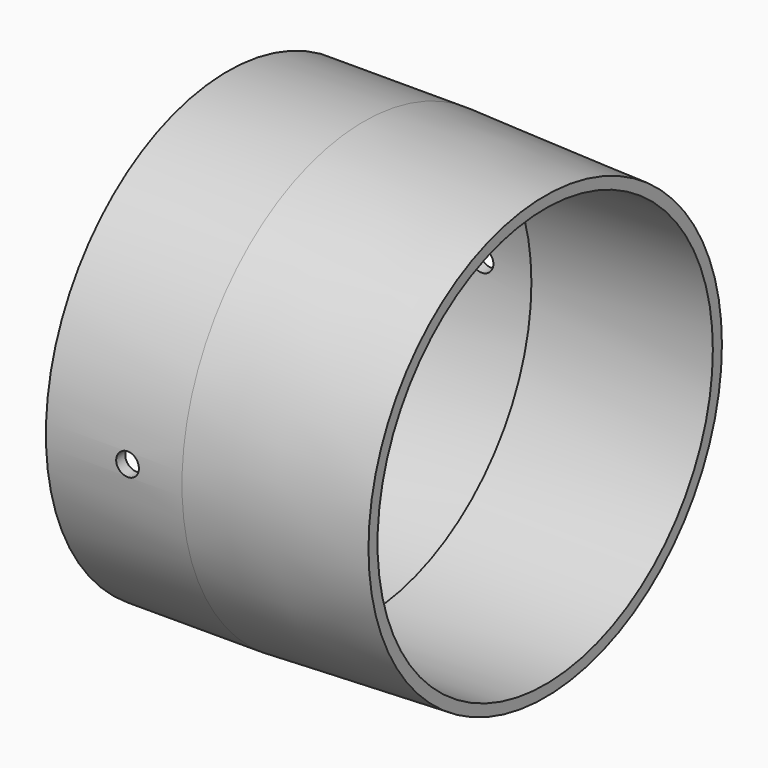
from build123d import *

# Parameters (mm, degrees)
F0_R           = 31.8135
F1_DEPTH       = 19.05
F1_FACE_R      = 31.8135
F3_R           = 30.9245
F5_R           = 30.226
F6_DEPTH       = 19.05
F7_R           = 29.337
F8_DEPTH       = 25.4
F9_R           = 1.5875
F10_DEPTH      = 31.8145001
F10_DEPTH_BACK = 31.8145001


with BuildPart() as f1:
    # F0 (on Right) → F1 (new body)
    with BuildSketch(Plane.YZ):
        Circle(F0_R)
    extrude(amount=F1_DEPTH)

    # F1_face (on face) → F4 section 0
    with BuildSketch(Plane.YZ.offset(19.05)):
        Circle(F1_FACE_R)
    # F3 (on offset) → F4 section 1
    with BuildSketch(Plane.YZ.offset(44.45)):
        Circle(F3_R)
    loft()

    # F5 (on face) → F6 (cut)
    with BuildSketch(Plane(origin=(0, 0, 0), x_dir=(0, -1, 0), z_dir=(-1, 0, 0))):
        Circle(F5_R)
    extrude(amount=-F6_DEPTH, mode=Mode.SUBTRACT)

    # F7 (on face) → F8 (cut, through all)
    with BuildSketch(Plane.YZ.offset(44.45)):
        Circle(F7_R)
    extrude(amount=-F8_DEPTH, mode=Mode.SUBTRACT)

    # F9 (on Front) → F10 (cut, two sides)
    with BuildSketch(Plane.XZ) as f10_sk:
        with Locations((11.429999955, 0)):
            Circle(F9_R)
    extrude(amount=-F10_DEPTH, mode=Mode.SUBTRACT)
    extrude(f10_sk.sketch, amount=F10_DEPTH_BACK, mode=Mode.SUBTRACT)


solid = f1.part
